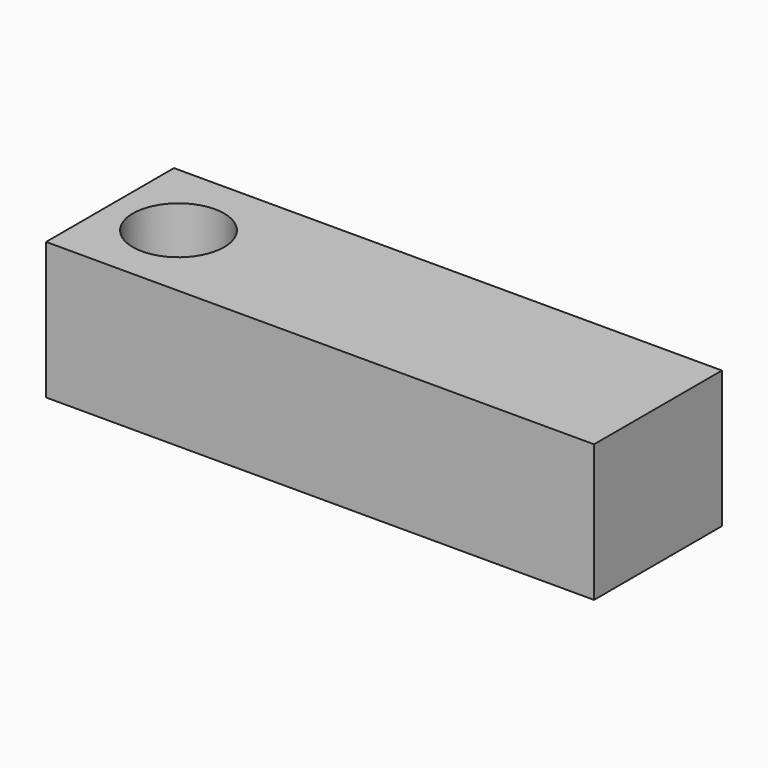
from build123d import *

# Parameters (mm, degrees)
F0_W      = 120
F0_H      = 35
F0_R      = 10
F1_DEPTH  = 5
F1_FACE_W = 120
F1_FACE_H = 35
F1_FACE_R = 10
F2_DEPTH  = 25


with BuildPart() as f1:
    # F0 (on Top) → F1 (new body)
    with BuildSketch(Plane.XY):
        Rectangle(F0_W, F0_H)
        with Locations((-45, 0)):
            Circle(F0_R, mode=Mode.SUBTRACT)
    extrude(amount=F1_DEPTH)

    # F1_face (on face) → F2 (join)
    with BuildSketch(Plane(origin=(3.638123, 0, 5), x_dir=(1, 0, 0), z_dir=(0, 0, 1))):
        with Locations((-3.638123, 0)):
            Rectangle(F1_FACE_W, F1_FACE_H)
        with Locations((-48.638123, 0)):
            Circle(F1_FACE_R, mode=Mode.SUBTRACT)
    extrude(amount=F2_DEPTH)


solid = f1.part
